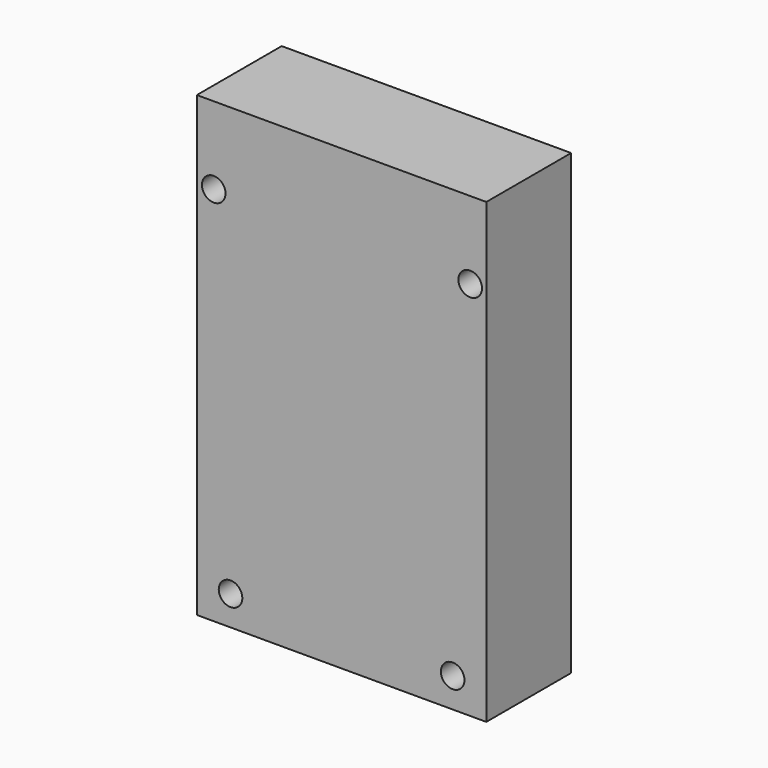
from build123d import *

# Parameters (mm, degrees)
F1_DEPTH = 20


with BuildPart() as f1:
    # F0 (on Front) → F1 (new body)
    with BuildSketch(Plane.XZ):
        with BuildLine():
            ThreePointArc((53.795, 28.295401), (51.57, 30.520401), (49.345, 28.295401))
            ThreePointArc((49.345, 28.295401), (51.57, 26.070401), (53.795, 28.295401))
        make_face()
        with BuildLine():
            ThreePointArc((50.485, -37.864599), (48.26, -35.639599), (46.035, -37.864599))
            ThreePointArc((46.035, -37.864599), (48.26, -40.089599), (50.485, -37.864599))
        make_face()
        Polygon((54.61, 42.905401), (0, 42.905401), (0, 28.295401), (0, -37.864599), (0, -43.454599), (54.61, -43.454599), align=None)
        with BuildLine():
            ThreePointArc((8.575, -37.864599), (6.35, -40.089599), (4.125, -37.864599))
            ThreePointArc((4.125, -37.864599), (6.35, -35.639599), (8.575, -37.864599))
        make_face(mode=Mode.SUBTRACT)
        with BuildLine():
            ThreePointArc((50.485, -37.864599), (48.26, -40.089599), (46.035, -37.864599))
            ThreePointArc((46.035, -37.864599), (48.26, -35.639599), (50.485, -37.864599))
        make_face(mode=Mode.SUBTRACT)
        with BuildLine():
            ThreePointArc((5.405, 28.295401), (3.18, 26.070401), (0.955, 28.295401))
            ThreePointArc((0.955, 28.295401), (3.18, 30.520401), (5.405, 28.295401))
        make_face(mode=Mode.SUBTRACT)
        with BuildLine():
            ThreePointArc((53.795, 28.295401), (51.57, 26.070401), (49.345, 28.295401))
            ThreePointArc((49.345, 28.295401), (51.57, 30.520401), (53.795, 28.295401))
        make_face(mode=Mode.SUBTRACT)
    extrude(amount=F1_DEPTH)


solid = f1.part
